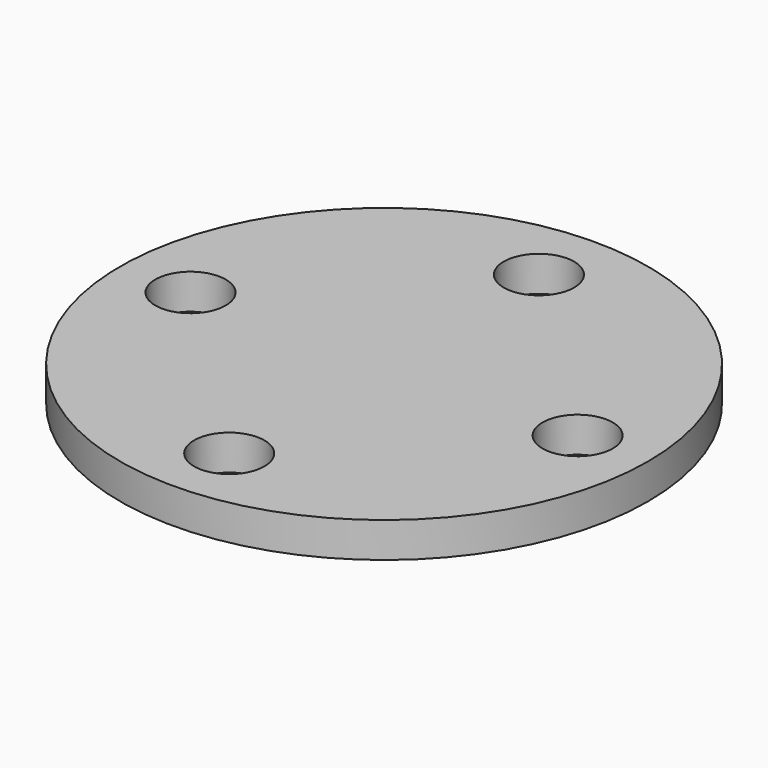
from build123d import *

# Parameters (mm, degrees)
F0_R     = 15
F0_R_2   = 2
F1_DEPTH = 2


with BuildPart() as f1:
    # F0 (on Top) → F1 (new body)
    with BuildSketch(Plane.XY):
        with Locations((15.596213, -24.284145)):
            Circle(F0_R)
        with Locations((4.596213, -24.284145)):
            Circle(F0_R_2, mode=Mode.SUBTRACT)
        with Locations((15.596213, -35.284145)):
            Circle(F0_R_2, mode=Mode.SUBTRACT)
        with Locations((15.596213, -13.284145)):
            Circle(F0_R_2, mode=Mode.SUBTRACT)
        with Locations((26.596213, -24.284145)):
            Circle(F0_R_2, mode=Mode.SUBTRACT)
    extrude(amount=F1_DEPTH)


solid = f1.part
